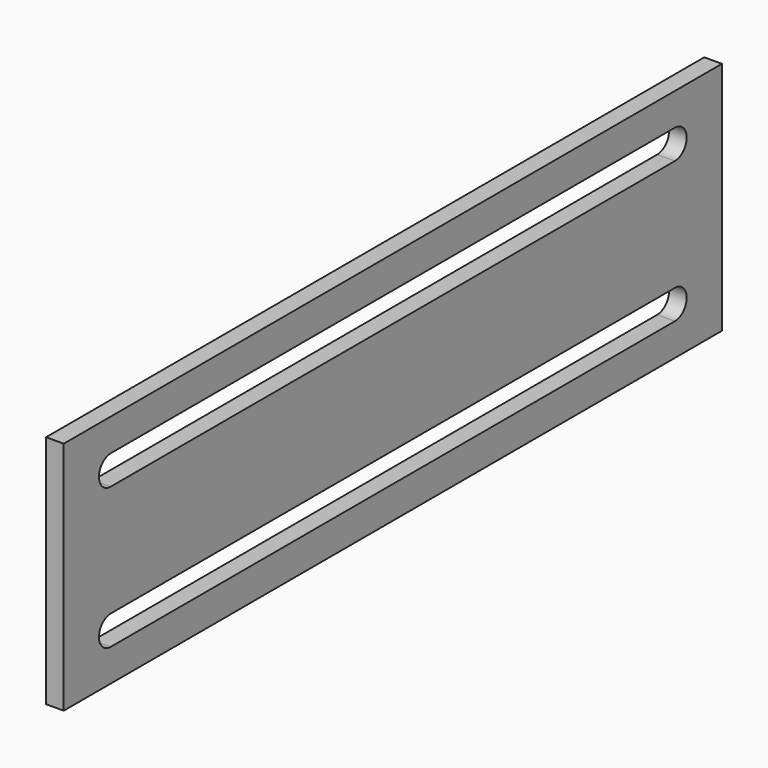
from build123d import *

# Parameters (mm, degrees)
F0_W     = 140
F0_H     = 40
F1_DEPTH = 3


with BuildPart() as f1:
    # F0 (on Right) → F1 (new body)
    with BuildSketch(Plane.YZ):
        with Locations((-70, 0)):
            Rectangle(F0_W, F0_H)
        with BuildLine():
            ThreePointArc((-130, -14.5), (-132.5, -12), (-130, -9.5))
            Line((-130, -9.5), (-10, -9.5))
            ThreePointArc((-10, -9.5), (-7.5, -12), (-10, -14.5))
            Line((-10, -14.5), (-130, -14.5))
        make_face(mode=Mode.SUBTRACT)
        with BuildLine():
            ThreePointArc((-130, 9.5), (-132.5, 12), (-130, 14.5))
            Line((-130, 14.5), (-10, 14.5))
            ThreePointArc((-10, 14.5), (-7.5, 12), (-10, 9.5))
            Line((-10, 9.5), (-130, 9.5))
        make_face(mode=Mode.SUBTRACT)
    extrude(amount=F1_DEPTH)


solid = f1.part
